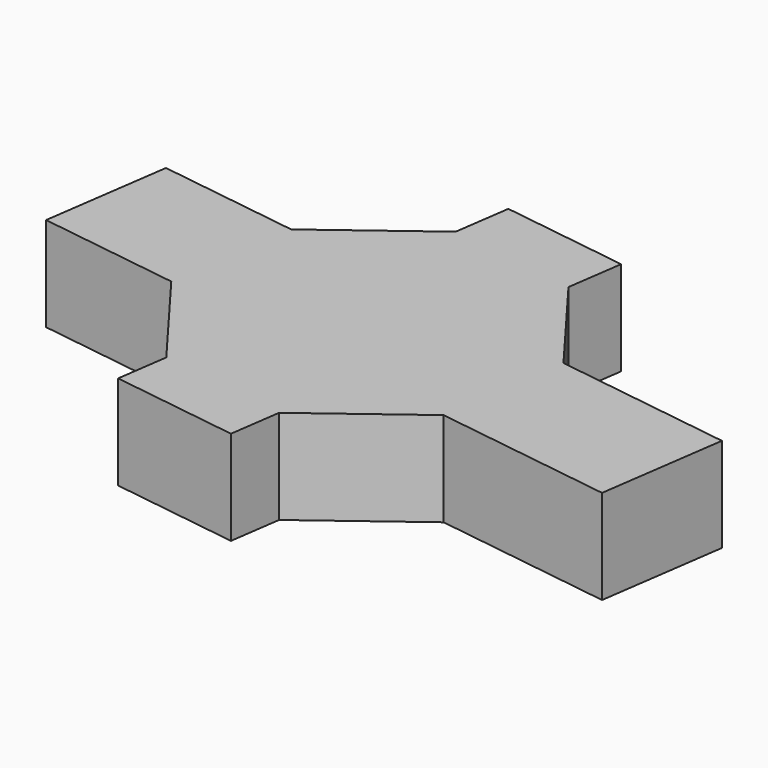
from build123d import *

# Parameters (mm, degrees)
F1_DEPTH = 37.1
F2_DEPTH = 56.1
F3_DEPTH = 71
F4_DEPTH = 20.3
F5_DEPTH = 22.2


with BuildPart() as f1:
    # F0 (on Top) → F1 (new body)
    with BuildSketch(Plane.XY):
        Polygon((-56.8497114772, 33.5975717617), (-63.9558873182, -16.4417456699), (-33.5975717617, -56.8497114772), (16.4417456699, -63.9558873182), (56.8497114772, -33.5975717617), (63.9558873182, 16.4417456699), (33.5975717617, 56.8497114772), (-16.4417456699, 63.9558873182), align=None)
    extrude(amount=F1_DEPTH)

    # F2 (add): a face of the model
    f2_faces = [f1.faces().sort_by_distance(p)[0] for p in [
        (-60.4027993977, 8.5779130459, 18.55),
    ]]
    extrude(f2_faces, amount=F2_DEPTH)

    # F3 (add): a face of the model
    f3_faces = [f1.faces().sort_by_distance(p)[0] for p in [
        (60.4027993977, -8.5779130459, 18.55),
    ]]
    extrude(f3_faces, amount=F3_DEPTH)

    # F4 (add): a face of the model
    f4_faces = [f1.faces().sort_by_distance(p)[0] for p in [
        (-8.5779130459, -60.4027993977, 18.55),
    ]]
    extrude(f4_faces, amount=F4_DEPTH)

    # F5 (add): a face of the model
    f5_faces = [f1.faces().sort_by_distance(p)[0] for p in [
        (8.5779130459, 60.4027993977, 18.55),
    ]]
    extrude(f5_faces, amount=F5_DEPTH)


solid = f1.part
